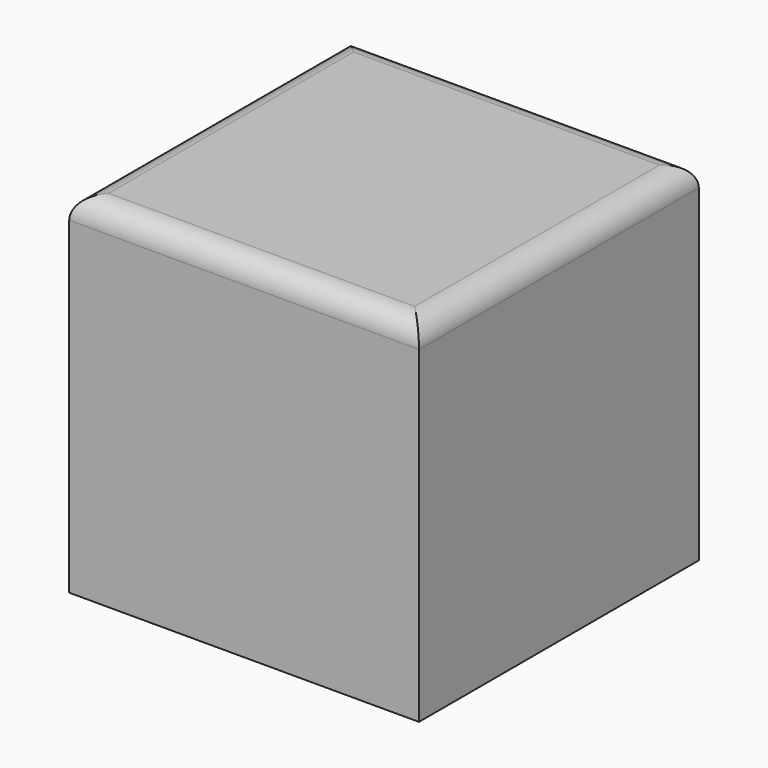
from build123d import *

# Parameters (mm, degrees)
F0_W     = 80
F0_H     = 80
F1_DEPTH = 40
F2_R     = 5


with BuildPart() as f1:
    # F0 (on Top) → F1 (new body, symmetric)
    with BuildSketch(Plane.XY):
        Rectangle(F0_W, F0_H)
    extrude(amount=F1_DEPTH, both=True)

    # F2
    f2_edges = [f1.edges().sort_by_distance(p)[0] for p in [
        (-40, 0, 40),
        (0, -40, 40),
        (40, 0, 40),
        (0, 40, 40),
    ]]
    fillet(f2_edges, radius=F2_R)


solid = f1.part
